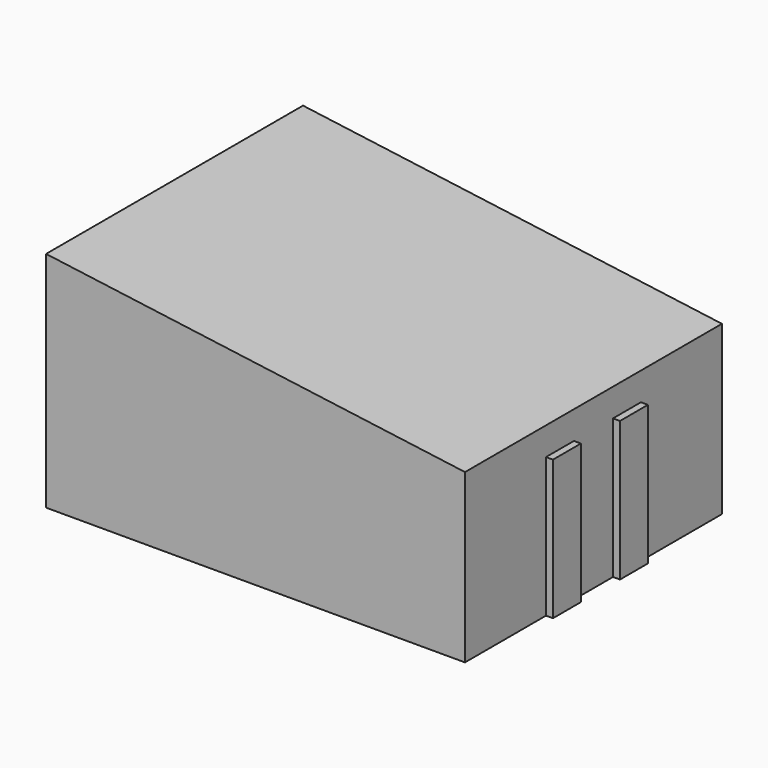
from build123d import *

# Parameters (mm, degrees)
F1_DEPTH = 115
F2_W     = 20
F2_H     = 140
F3_DEPTH = 5
F4_W     = 25
F4_H     = 100
F5_DEPTH = 5


with BuildPart() as f1:
    # F0 (on Front) → F1 (new body, symmetric)
    with BuildSketch(Plane.XZ):
        Polygon((-300, 0), (0, 0), (0, 120), (-300, 160), align=None)
    extrude(amount=F1_DEPTH, both=True)

    # F2 (on Top) → F3 (join)
    with BuildSketch(Plane.XY):
        with Locations((-260, 0)):
            Rectangle(F2_W, F2_H)
        with Locations((-50, 0)):
            Rectangle(F2_W, F2_H)
    extrude(amount=-F3_DEPTH)

    # F4 (on Right) → F5 (join)
    with BuildSketch(Plane.YZ):
        with Locations((30, 50)):
            Rectangle(F4_W, F4_H)
        with Locations((-30, 50)):
            Rectangle(F4_W, F4_H)
    extrude(amount=F5_DEPTH)


solid = f1.part
